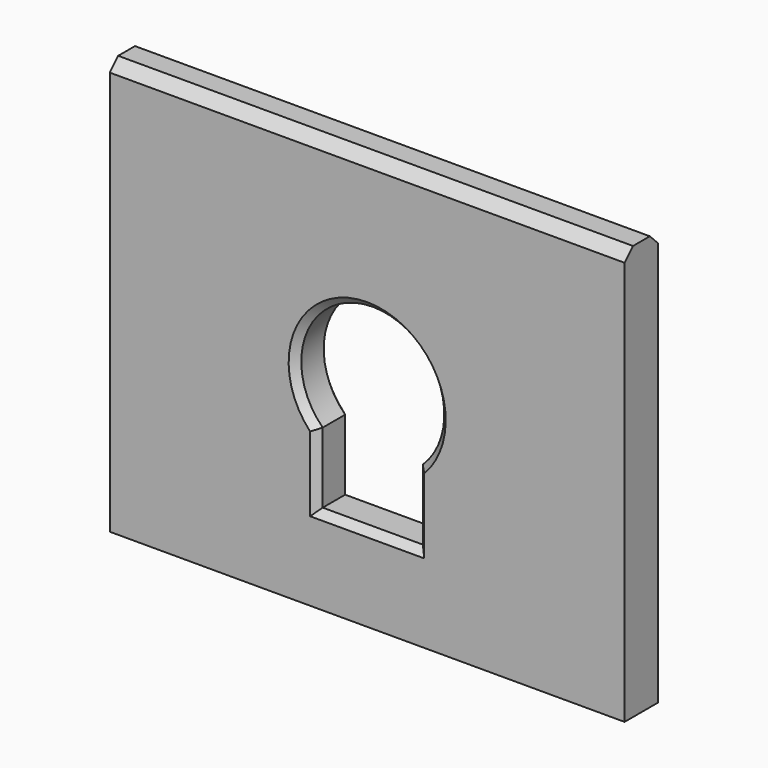
from build123d import *

# Parameters (mm, degrees)
F0_W     = 73.423766
F0_H     = 59.146922
F1_DEPTH = 6
F2_SIZE  = 1
F3_SIZE  = 1.5


with BuildPart() as f1:
    # F0 (on Front) → F1 (new body)
    with BuildSketch(Plane.XZ):
        Rectangle(F0_W, F0_H)
        with BuildLine():
            Line((7.138422, -7.285804), (7.138422, -17.335804))
            Line((7.138422, -17.335804), (-7.138422, -17.335804))
            Line((-7.138422, -17.335804), (-7.138422, -7.285804))
            ThreePointArc((-7.138422, -7.285804), (0, 10.2), (7.138422, -7.285804))
        make_face(mode=Mode.SUBTRACT)
    extrude(amount=F1_DEPTH)

    # F2
    f2_edges = [f1.edges().sort_by_distance(p)[0] for p in [
        (0, -6, 10.2),
        (-7.138422, -6, -12.310804),
        (0, -6, -17.335804),
        (7.138422, -6, -12.310804),
        (0, 0, -17.335804),
        (-7.138422, 0, -12.310804),
        (0, 0, 10.2),
        (7.138422, 0, -12.310804),
    ]]
    chamfer(f2_edges, length=F2_SIZE)

    # F3
    f3_edges = [f1.edges().sort_by_distance(p)[0] for p in [
        (0, -6, 29.573461),
        (0, 0, 29.573461),
    ]]
    chamfer(f3_edges, length=F3_SIZE)


solid = f1.part
